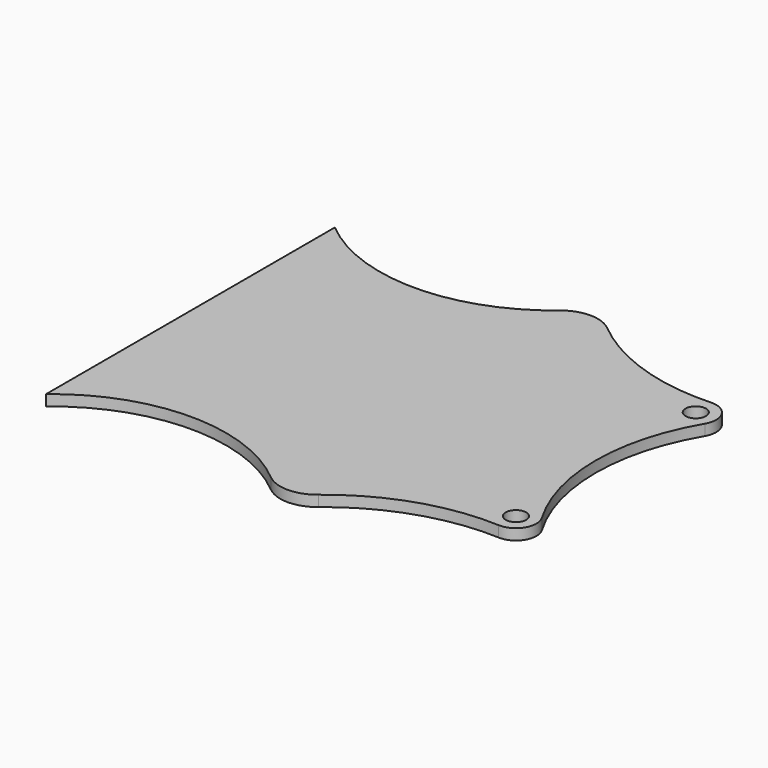
from build123d import *

# Parameters (mm, degrees)
SKETCH_R  = 1.5
PAD_DEPTH = 1.6


with BuildPart() as part:
    # Sketch → Pad (new body)
    with BuildSketch(Plane.XY):
        with BuildLine():
            ThreePointArc((59.5, 0), (43, 6), (26.5, 0))
            Line((26.5, 0), (26.5, 53))
            ThreePointArc((26.5, 53), (43, 47), (59.5, 53))
            ThreePointArc((66.5, 53), (63, 54.262411), (59.5, 53))
            ThreePointArc((66.5, 53), (76.280312, 47.553998), (87.365852, 45.996999))
            ThreePointArc((90.084619, 41.47693), (90.070775, 44.54629), (87.365852, 45.996999))
            ThreePointArc((90.084619, 41.47693), (86, 26.500006), (90.084613, 11.523081))
            ThreePointArc((87.365857, 7.003001), (90.070792, 8.45371), (90.084613, 11.523081))
            ThreePointArc((87.365857, 7.003001), (76.280314, 5.446003), (66.5, 0))
            ThreePointArc((59.5, 0), (63, -1.262442), (66.5, 0))
        make_face()
        with Locations((87.5, 43)):
            Circle(SKETCH_R, mode=Mode.SUBTRACT)
        with Locations((87.5, 10)):
            Circle(SKETCH_R, mode=Mode.SUBTRACT)
    extrude(amount=PAD_DEPTH)


solid = part.part
